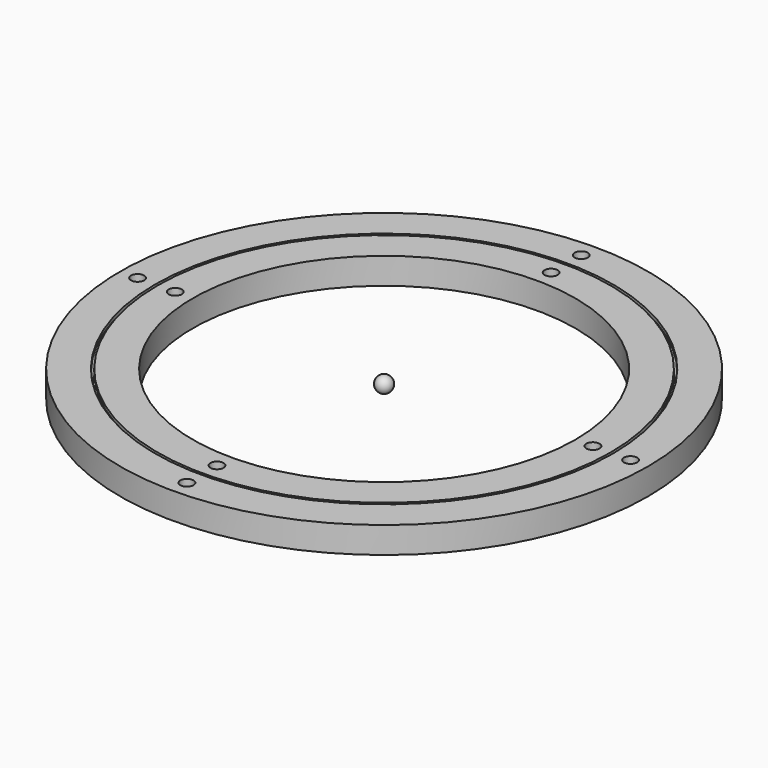
from build123d import *

# Parameters (mm, degrees)
F1_R     = 100
F1_R_2   = 2.5
F1_R_3   = 86.75
F2_DEPTH = 5
F3_R     = 85.75
F3_R_2   = 2.5
F3_R_3   = 72.5
F4_DEPTH = 5


with BuildPart() as f2:
    # F1 (on Top) → F2 (new body, symmetric)
    with BuildSketch(Plane.XY):
        Circle(F1_R)
        with Locations((0, -93.375)):
            Circle(F1_R_2, mode=Mode.SUBTRACT)
        with Locations((-93.375, 0)):
            Circle(F1_R_2, mode=Mode.SUBTRACT)
        Circle(F1_R_3, mode=Mode.SUBTRACT)
        with Locations((93.375, 0)):
            Circle(F1_R_2, mode=Mode.SUBTRACT)
        with Locations((0, 93.375)):
            Circle(F1_R_2, mode=Mode.SUBTRACT)
    extrude(amount=F2_DEPTH, both=True)


with BuildPart() as f4:
    # F3 (on Top) → F4 (new body, symmetric)
    with BuildSketch(Plane.XY):
        Circle(F3_R)
        with Locations((0, -79.125)):
            Circle(F3_R_2, mode=Mode.SUBTRACT)
        with Locations((-79.125, 0)):
            Circle(F3_R_2, mode=Mode.SUBTRACT)
        Circle(F3_R_3, mode=Mode.SUBTRACT)
        with Locations((79.125, 0)):
            Circle(F3_R_2, mode=Mode.SUBTRACT)
        with Locations((0, 79.125)):
            Circle(F3_R_2, mode=Mode.SUBTRACT)
    extrude(amount=F4_DEPTH, both=True)


with BuildPart() as f6:
    # F5 (on Front) → F6 (revolve)
    with BuildSketch(Plane.XZ):
        Polygon((90.4926406871, 0), (86.25, 4.2426406871), (82.0073593129, 0), (86.25, -4.2426406871), align=None)
    revolve(axis=Axis((0, 0, 0), (0, 0, -1)))


with BuildPart() as f2_1:
    add(f2.part)

    # F7: cut F6
    add(f6.part, mode=Mode.SUBTRACT)


with BuildPart() as f4_1:
    add(f4.part)

    # F7: cut F6
    add(f6.part, mode=Mode.SUBTRACT)


with BuildPart() as f9:
    # F8 (on Front) → F9 (revolve)
    with BuildSketch(Plane.XZ):
        with BuildLine():
            Line((0, 3), (0, -3))
            ThreePointArc((0, -3), (3, 0), (0, 3))
        make_face()
    revolve(axis=Axis((0, 0, 0), (0, 0, -1)))


solid = Compound([f2_1.part, f4_1.part, f9.part])
